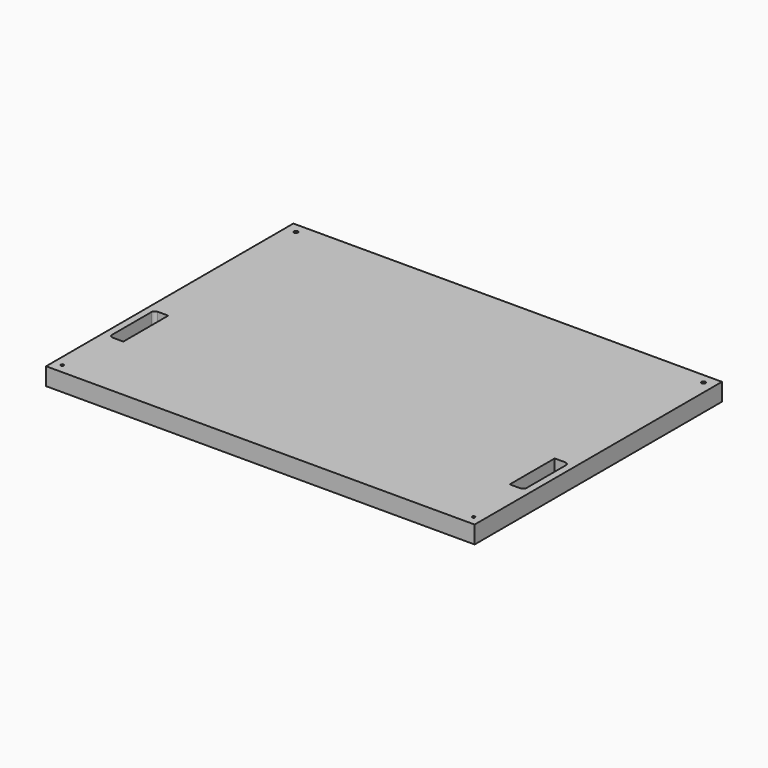
from build123d import *

# Parameters (mm, degrees)
F0_R     = 2.0293084654
F0_R_2   = 2.7851350605
F1_DEPTH = 25


with BuildPart() as f1:
    # F0 (on Top) → F1 (new body)
    with BuildSketch(Plane.XY):
        Polygon((-38.5909078717, 398.5895687342), (-71.5909078717, 398.5895687342), (-71.5909078717, -41.4104312658), (-38.5909078717, -41.4104312658), (-38.5909078717, 191.306501627), align=None)
        with Locations((-59.2456907034, -27.969462797)):
            Circle(F0_R, mode=Mode.SUBTRACT)
        with BuildLine():
            ThreePointArc((-56.6312761605, 58.5325606167), (-60.1668100664, 59.9970267108), (-61.6312761605, 63.5325606167))
            Line((-61.6312761605, 63.5325606167), (-61.6312761605, 133.5325606167))
            ThreePointArc((-61.6312761605, 133.5325606167), (-60.1668100664, 137.0680945227), (-56.6312761605, 138.5325606167))
            Line((-56.6312761605, 138.5325606167), (-41.6312761605, 138.5325606167))
            Line((-41.6312761605, 138.5325606167), (-41.6312761605, 58.5325606167))
            Line((-41.6312761605, 58.5325606167), (-56.6312761605, 58.5325606167))
        make_face(mode=Mode.SUBTRACT)
        with Locations((-56.7024089396, 384.5269083977)):
            Circle(F0_R_2, mode=Mode.SUBTRACT)
        Polygon((505.4090921283, 398.5895687342), (-38.5909078717, 398.5895687342), (-38.5909078717, 191.306501627), (-38.5909078717, -41.4104312658), (505.4090921283, -41.4104312658), (505.4090921283, 191.306501627), align=None)
        Polygon((538.4090921283, 398.5895687342), (505.4090921283, 398.5895687342), (505.4090921283, 191.306501627), (505.4090921283, -41.4104312658), (538.4090921283, -41.4104312658), align=None)
        with Locations((526.0638749599, -27.969462797)):
            Circle(F0_R, mode=Mode.SUBTRACT)
        with BuildLine():
            Line((508.449460417, 138.5325606167), (523.449460417, 138.5325606167))
            ThreePointArc((523.449460417, 138.5325606167), (526.984994323, 137.0680945227), (528.449460417, 133.5325606167))
            Line((528.449460417, 133.5325606167), (528.449460417, 63.5325606167))
            ThreePointArc((528.449460417, 63.5325606167), (526.984994323, 59.9970267108), (523.449460417, 58.5325606167))
            Line((523.449460417, 58.5325606167), (508.449460417, 58.5325606167))
            Line((508.449460417, 58.5325606167), (508.449460417, 138.5325606167))
        make_face(mode=Mode.SUBTRACT)
        with Locations((523.5205931962, 384.5269083977)):
            Circle(F0_R_2, mode=Mode.SUBTRACT)
    extrude(amount=F1_DEPTH)


solid = f1.part
